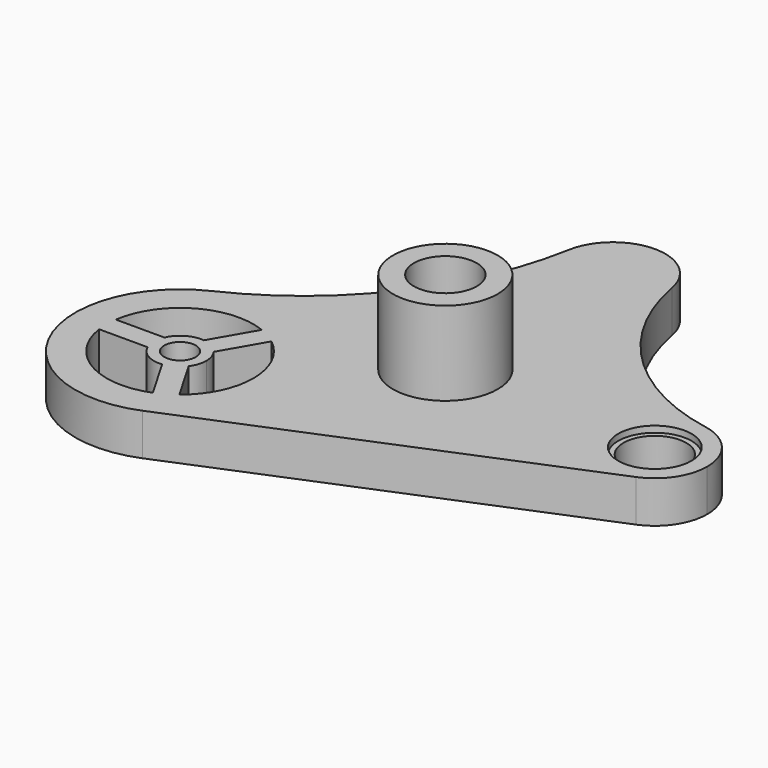
from build123d import *

# Parameters (mm, degrees)
F0_R      = 25
F0_R_2    = 17.5
F0_R_3    = 7.5
F1_DEPTH  = 20
F2_DEPTH  = 40
F3_R      = 15
F4_DEPTH  = 40
F5_R      = 10
F6_DEPTH  = 20
F7_R      = 15
F8_DEPTH  = 20.001
F9_R      = 17.5
F10_DEPTH = 3


with BuildPart() as f1:
    # F0 (on Top) → F1 (new body)
    with BuildSketch(Plane.XY):
        with BuildLine():
            ThreePointArc((61.9906852191, 154.3882326301), (33.5268459232, 89.6702692228), (-21.4201114342, 45.1794071026))
            ThreePointArc((-21.4201114342, 45.1794071026), (-45.7124014002, -20.2577481036), (19.0821348166, -46.2154966525))
            Line((19.0821348166, -46.2154966525), (196.1436077868, 26.8922516737))
            ThreePointArc((196.1436077868, 26.8922516737), (161.7368914415, 47.4116601952), (191.1799201156, 74.5773797371))
            ThreePointArc((191.1799201156, 74.5773797371), (138.7787609454, 102.1762205669), (111.1799201156, 154.5773797371))
            ThreePointArc((111.1799201156, 154.5773797371), (111.4966611043, 152.2984240875), (111.6025403784, 150))
            ThreePointArc((111.6025403784, 150), (84.3998578075, 125.0972252652), (61.9906852191, 154.3882326301))
        make_face()
        with BuildLine():
            ThreePointArc((21.6506350946, 27.5), (31.4862845403, 15.2844327943), (35, 0))
            ThreePointArc((35, 0), (31.4862845403, -15.2844327943), (21.6506350946, -27.5))
            ThreePointArc((21.6506350946, -27.5), (17.5, -30.3108891325), (12.9903810568, -32.5))
            ThreePointArc((12.9903810568, -32.5), (-17.5, -30.3108891325), (-34.6410161514, -5))
            ThreePointArc((-34.6410161514, -5), (-35, 0), (-34.6410161514, 5))
            ThreePointArc((-34.6410161514, 5), (-17.5, 30.3108891325), (12.9903810568, 32.5))
            ThreePointArc((12.9903810568, 32.5), (17.5, 30.3108891325), (21.6506350946, 27.5))
        make_face(mode=Mode.SUBTRACT)
        with Locations((86.6025403784, 50)):
            Circle(F0_R, mode=Mode.SUBTRACT)
        with BuildLine():
            ThreePointArc((191.1799201156, 74.5773797371), (161.7368914415, 47.4116601952), (196.1436077868, 26.8922516737))
            ThreePointArc((196.1436077868, 26.8922516737), (207.3814561972, 36.0990411339), (211.6025403784, 50))
            ThreePointArc((211.6025403784, 50), (205.8305732137, 65.9775703186), (191.1799201156, 74.5773797371))
        make_face()
        with Locations((186.6025403784, 50)):
            Circle(F0_R_2, mode=Mode.SUBTRACT)
        with BuildLine():
            ThreePointArc((111.1799201156, 154.5773797371), (86.5064087202, 174.9998151734), (61.9906852191, 154.3882326301))
            ThreePointArc((61.9906852191, 154.3882326301), (84.3998578075, 125.0972252652), (111.6025403784, 150))
            ThreePointArc((111.6025403784, 150), (111.4966611043, 152.2984240875), (111.1799201156, 154.5773797371))
        make_face()
        with Locations((86.6025403784, 150)):
            Circle(F0_R_2, mode=Mode.SUBTRACT)
        with Locations((86.6025403784, 50)):
            Circle(F0_R)
        with Locations((186.6025403784, 50)):
            Circle(F0_R_2)
        with Locations((86.6025403784, 150)):
            Circle(F0_R_2)
        with BuildLine():
            ThreePointArc((12.5, 0), (11.8739069596, 3.9064476849), (10.0583466376, 7.4215674165))
            ThreePointArc((10.0583466376, 7.4215674165), (6.25, 10.8253175473), (1.3980925998, 12.4215674165))
            ThreePointArc((1.3980925998, 12.4215674165), (-6.25, 10.8253175473), (-11.4564392374, 5))
            ThreePointArc((-11.4564392374, 5), (-12.5, 0), (-11.4564392374, -5))
            ThreePointArc((-11.4564392374, -5), (-6.25, -10.8253175473), (1.3980925998, -12.4215674165))
            ThreePointArc((1.3980925998, -12.4215674165), (6.25, -10.8253175473), (10.0583466376, -7.4215674165))
            ThreePointArc((10.0583466376, -7.4215674165), (11.8739069596, -3.9064476849), (12.5, 0))
        make_face()
        Circle(F0_R_3, mode=Mode.SUBTRACT)
        with BuildLine():
            Line((10.0583466376, 7.4215674165), (21.6506350946, 27.5))
            ThreePointArc((21.6506350946, 27.5), (17.5, 30.3108891325), (12.9903810568, 32.5))
            Line((12.9903810568, 32.5), (1.3980925998, 12.4215674165))
            ThreePointArc((1.3980925998, 12.4215674165), (6.25, 10.8253175473), (10.0583466376, 7.4215674165))
        make_face()
        with BuildLine():
            Line((-11.4564392374, 5), (-34.6410161514, 5))
            ThreePointArc((-34.6410161514, 5), (-35, 0), (-34.6410161514, -5))
            Line((-34.6410161514, -5), (-11.4564392374, -5))
            ThreePointArc((-11.4564392374, -5), (-12.5, 0), (-11.4564392374, 5))
        make_face()
        with BuildLine():
            ThreePointArc((12.9903810568, -32.5), (17.5, -30.3108891325), (21.6506350946, -27.5))
            Line((21.6506350946, -27.5), (10.0583466376, -7.4215674165))
            ThreePointArc((10.0583466376, -7.4215674165), (6.25, -10.8253175473), (1.3980925998, -12.4215674165))
            Line((1.3980925998, -12.4215674165), (12.9903810568, -32.5))
        make_face()
    extrude(amount=-F1_DEPTH)

    # F0 (on Top) → F2 (join)
    with BuildSketch(Plane.XY):
        with Locations((86.6025403784, 50)):
            Circle(F0_R)
    extrude(amount=F2_DEPTH)

    # F3 (on face) → F4 (cut, through all)
    with BuildSketch(Plane.XY.offset(40)):
        with Locations((86.6025403784, 50)):
            Circle(F3_R)
    extrude(amount=-F4_DEPTH, mode=Mode.SUBTRACT)

    # F5 (on face) → F6 (cut, through all)
    with BuildSketch(Plane(origin=(0, 0, -20), x_dir=(1, 0, 0), z_dir=(0, 0, -1))):
        with Locations((86.6025403784, -50)):
            Circle(F5_R)
    extrude(amount=-F6_DEPTH, mode=Mode.SUBTRACT)

    # F7 (on face) → F8 (cut, through all)
    with BuildSketch(Plane.XY):
        with Locations((186.6025403784, 50)):
            Circle(F7_R)
    extrude(amount=-F8_DEPTH, mode=Mode.SUBTRACT)

    # F9 (on face) → F10 (cut)
    with BuildSketch(Plane.XY):
        with Locations((186.6025403784, 50)):
            Circle(F9_R)
    extrude(amount=-F10_DEPTH, mode=Mode.SUBTRACT)


solid = f1.part
